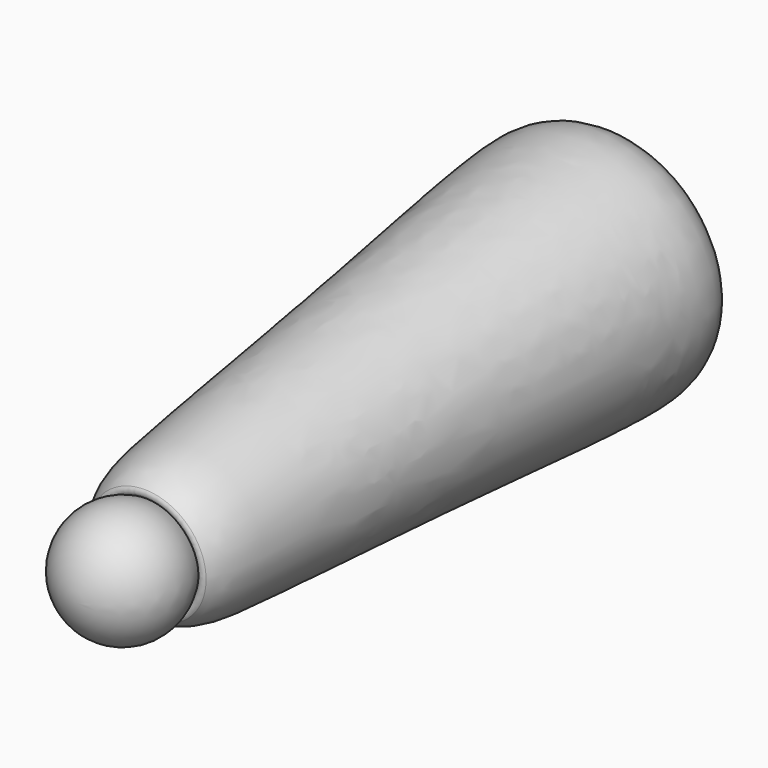
from build123d import *

# Parameters (mm, degrees)
FILLET096_R             = 6
FILLET097_R             = 3
BODY058_PLACEMENT_ANGLE = 3


with BuildPart() as part:
    # Sketch195 → Revolution100 (revolve)
    with BuildSketch(Plane.XY):
        with BuildLine():
            Line((0, -29.245996), (0, -395.969613))
            add(Edge.make_bspline(
                [(0, -29.245996), (71.97521, -29.245996), (74.761139, -71.14093), (60.18763, -188.319479), (45.659971, -358.12794), (39.993144, -395.969613), (0, -395.969613)],
                knots=[0, 0, 0, 0, 0.25, 0.5, 0.75, 1, 1, 1, 1], degree=3))
        make_face()
    revolve(axis=Axis((0, 0, 0), (0, 1, 0)))

    # Sketch196 → Groove094 (revolve, cut)
    with BuildSketch(Plane.XY):
        with BuildLine():
            Line((0, 60), (0, -60))
            ThreePointArc((0, -60), (60, 0), (0, 60))
        make_face()
    revolve(axis=Axis((0, 0, 0), (0, 1, 0)), mode=Mode.SUBTRACT)

    # Fillet096
    fillet096_edges = [part.edges().sort_by_distance(p)[0] for p in [
        (-48.746872, -34.982031, 0),
    ]]
    fillet(fillet096_edges, radius=FILLET096_R)

    # Sketch197 → Groove095 (revolve, cut)
    with BuildSketch(Plane.XY):
        with BuildLine():
            Line((0, -368), (0, -438))
            ThreePointArc((0, -438), (35, -403), (0, -368))
        make_face()
    revolve(axis=Axis((0, 0, 0), (0, 1, 0)), mode=Mode.SUBTRACT)

    # Fillet097
    fillet097_edges = [part.edges().sort_by_distance(p)[0] for p in [
        (-31.536984, -387.820454, 0),
    ]]
    fillet(fillet097_edges, radius=FILLET097_R)

    # Sketch197 → Revolution101 (revolve)
    with BuildSketch(Plane.XY):
        with BuildLine():
            Line((0, -368), (0, -438))
            ThreePointArc((0, -438), (35, -403), (0, -368))
        make_face()
    revolve(axis=Axis((0, 0, 0), (0, 1, 0)))


with BuildPart() as part_1:
    # Body058 placement: moved
    add(part.part.moved(Location((75, 899.018312, 0.388141))).rotate(Axis((75, 899.018312, 0.388141), (1, 0, 0)), BODY058_PLACEMENT_ANGLE))


solid = part_1.part
